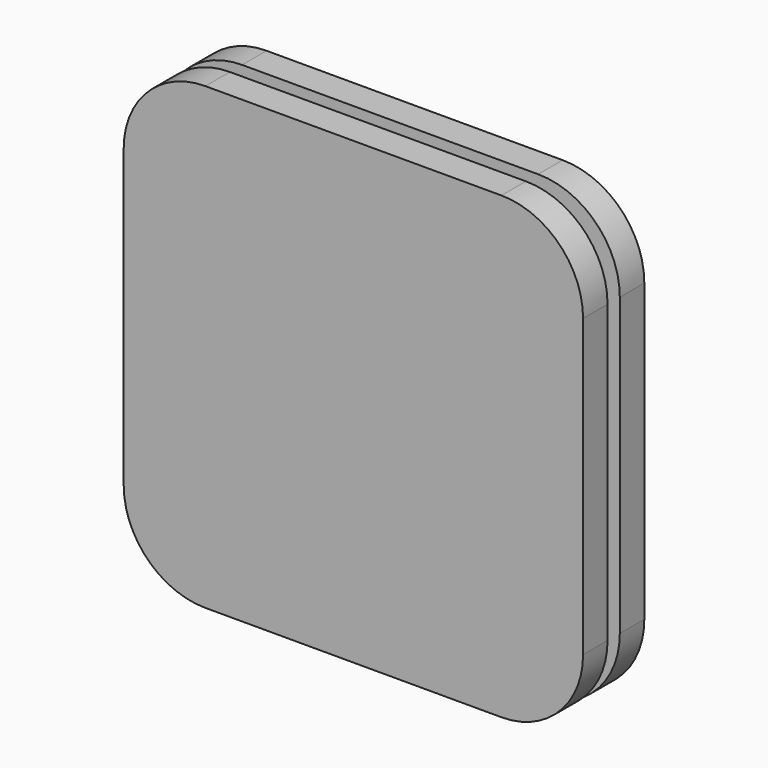
from build123d import *

# Parameters (mm, degrees)
F1_DEPTH = 6
F3_DEPTH = 3
F5_DEPTH = 6


with BuildPart() as f1:
    # F0 (on Front) → F1 (new body)
    with BuildSketch(Plane.XZ):
        with BuildLine():
            Line((29, 45), (-29, 45))
            ThreePointArc((-29, 45), (-40.313708499, 40.313708499), (-45, 29))
            Line((-45, 29), (-45, -29))
            ThreePointArc((-45, -29), (-40.313708499, -40.313708499), (-29, -45))
            Line((-29, -45), (29, -45))
            ThreePointArc((29, -45), (40.313708499, -40.313708499), (45, -29))
            Line((45, -29), (45, 29))
            ThreePointArc((45, 29), (40.313708499, 40.313708499), (29, 45))
        make_face()
    extrude(amount=F1_DEPTH)


with BuildPart() as f3:
    # F2 (on face) → F3 (new body)
    with BuildSketch(Plane.XZ.offset(6)):
        with BuildLine():
            Line((23, 39), (-23, 39))
            ThreePointArc((-23, 39), (-34.313708499, 34.313708499), (-39, 23))
            Line((-39, 23), (-39, -23))
            ThreePointArc((-39, -23), (-34.313708499, -34.313708499), (-23, -39))
            Line((-23, -39), (23, -39))
            ThreePointArc((23, -39), (34.313708499, -34.313708499), (39, -23))
            Line((39, -23), (39, 23))
            ThreePointArc((39, 23), (34.313708499, 34.313708499), (23, 39))
        make_face()
    extrude(amount=F3_DEPTH)


with BuildPart() as f5:
    # F4 (on face) → F5 (new body)
    with BuildSketch(Plane.XZ.offset(9)):
        with BuildLine():
            Line((29, 45), (-29, 45))
            ThreePointArc((-29, 45), (-40.313708499, 40.313708499), (-45, 29))
            Line((-45, 29), (-45, -29))
            ThreePointArc((-45, -29), (-40.313708499, -40.313708499), (-29, -45))
            Line((-29, -45), (29, -45))
            ThreePointArc((29, -45), (40.313708499, -40.313708499), (45, -29))
            Line((45, -29), (45, 29))
            ThreePointArc((45, 29), (40.313708499, 40.313708499), (29, 45))
        make_face()
    extrude(amount=F5_DEPTH)


solid = Compound([f1.part, f3.part, f5.part])
